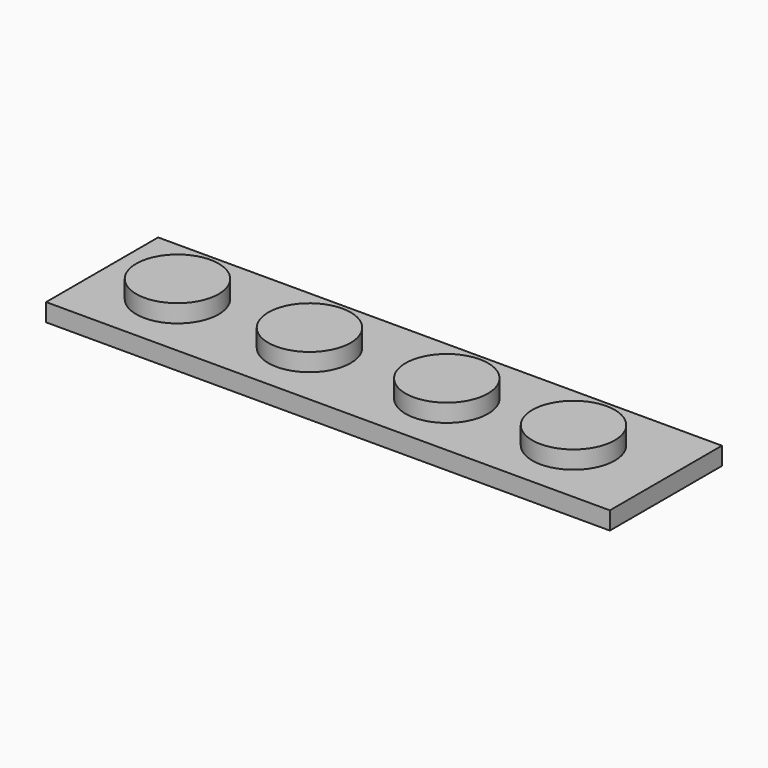
from build123d import *

# Parameters (mm, degrees)
F0_R     = 2.31
F1_DEPTH = 2
F0_W     = 31.6
F0_H     = 7.85
F2_DEPTH = 1


with BuildPart() as f1:
    # F0 (on Top) → F1 (new body)
    with BuildSketch(Plane.XY):
        with Locations((-8.302512, -5.613565)):
            Circle(F0_R)
        with Locations((-0.903244, -5.613565)):
            Circle(F0_R)
        with Locations((6.791993, -5.613565)):
            Circle(F0_R)
        with Locations((13.895289, -5.613565)):
            Circle(F0_R)
    extrude(amount=F1_DEPTH)

    # F0 (on Top) → F2 (join)
    with BuildSketch(Plane.XY):
        with Locations((3.182954, -5.501699)):
            Rectangle(F0_W, F0_H)
        with Locations((-8.302512, -5.613565)):
            Circle(F0_R, mode=Mode.SUBTRACT)
        with Locations((-0.903244, -5.613565)):
            Circle(F0_R, mode=Mode.SUBTRACT)
        with Locations((6.791993, -5.613565)):
            Circle(F0_R, mode=Mode.SUBTRACT)
        with Locations((13.895289, -5.613565)):
            Circle(F0_R, mode=Mode.SUBTRACT)
    extrude(amount=F2_DEPTH)


solid = f1.part
